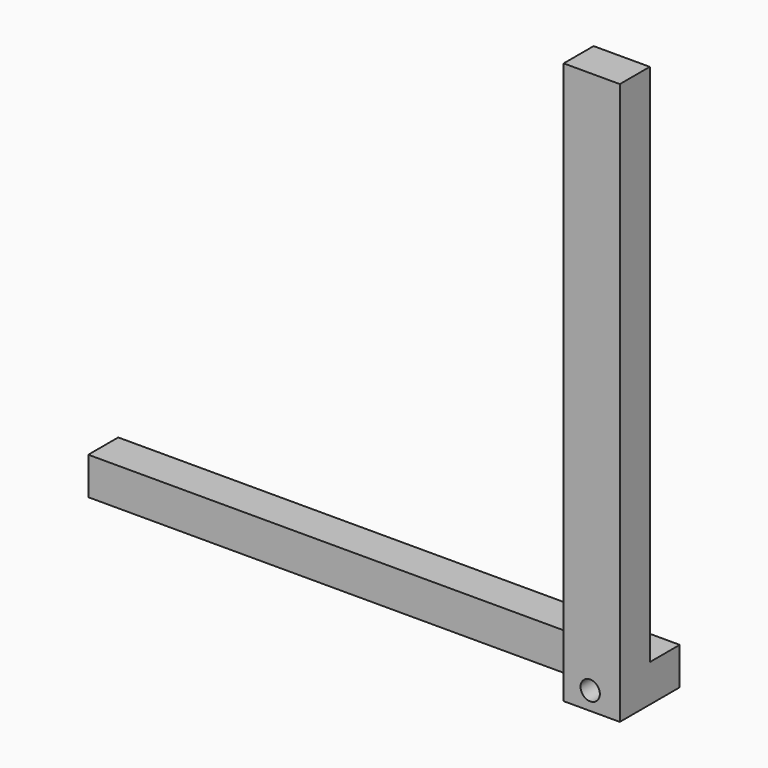
from build123d import *

# Parameters (mm, degrees)
F0_W     = 300
F0_H     = 20
F1_DEPTH = 20
F2_R     = 5.1542561855
F3_DEPTH = 20.001
F4_W     = 30
F4_H     = 300
F5_DEPTH = 20
F6_R     = 5.1542561855
F7_DEPTH = 25


with BuildPart() as f1:
    # F0 (on Front) → F1 (new body)
    with BuildSketch(Plane.XZ):
        with Locations((93.8255012718, 10)):
            Rectangle(F0_W, F0_H)
    extrude(amount=F1_DEPTH)

    # F2 (on face) → F3 (cut, through all)
    with BuildSketch(Plane.XZ.offset(20)):
        with Locations((227.9840409756, 9.651648812)):
            Circle(F2_R)
    extrude(amount=-F3_DEPTH, mode=Mode.SUBTRACT)

    # F4 (on face) → F5 (join)
    with BuildSketch(Plane.XZ.offset(20)):
        with Locations((228.8255012718, 150)):
            Rectangle(F4_W, F4_H)
    extrude(amount=F5_DEPTH)

    # F6 (on face) → F7 (cut)
    with BuildSketch(Plane.XZ.offset(40)):
        with Locations((227.9840409756, 9.651648812)):
            Circle(F6_R)
    extrude(amount=-F7_DEPTH, mode=Mode.SUBTRACT)


solid = f1.part
